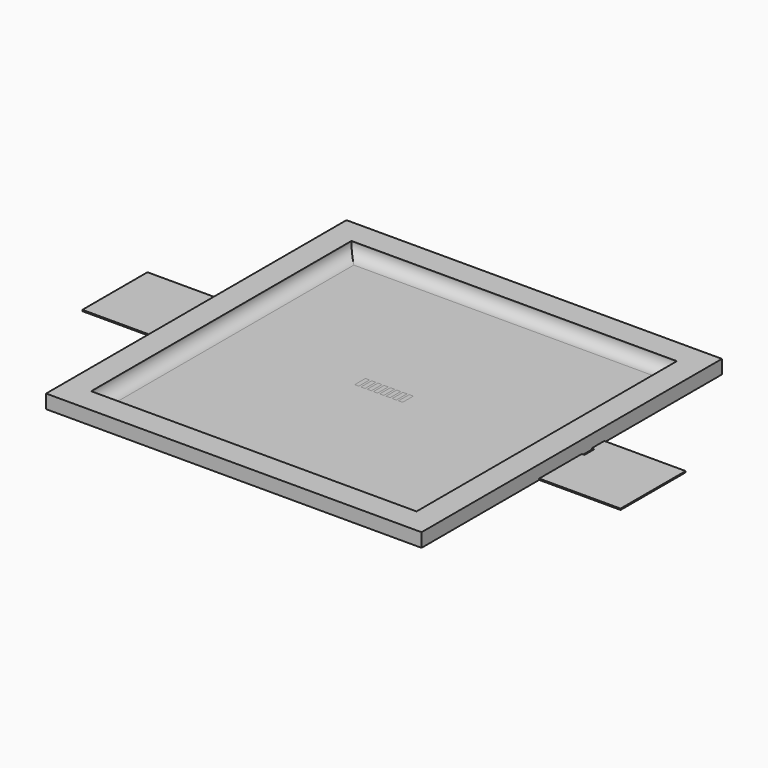
from build123d import *

# Parameters (mm, degrees)
SKETCH_W      = 86
SKETCH_H      = 13
SKETCH_W_2    = 0.5
SKETCH_H_2    = 2
PAD_DEPTH     = 0.2
SKETCH001_W   = 60
SKETCH001_H   = 60
SKETCH001_W_2 = 0.65
SKETCH001_H_2 = 2.15
PAD001_DEPTH  = 0.2
SKETCH002_W   = 60
SKETCH002_H   = 60
SKETCH002_W_2 = 52
SKETCH002_H_2 = 52
PAD002_DEPTH  = 2
FILLET_R      = 1.9


with BuildPart() as body:
    # Sketch → Pad (new body)
    with BuildSketch(Plane.XY):
        Rectangle(SKETCH_W, SKETCH_H)
        with Locations((-30.17, 3)):
            Rectangle(SKETCH_W_2, SKETCH_H_2, mode=Mode.SUBTRACT)
        with Locations((-29.17, 3)):
            Rectangle(SKETCH_W_2, SKETCH_H_2, mode=Mode.SUBTRACT)
        with Locations((-28.17, 3)):
            Rectangle(SKETCH_W_2, SKETCH_H_2, mode=Mode.SUBTRACT)
        with Locations((-27.17, 3)):
            Rectangle(SKETCH_W_2, SKETCH_H_2, mode=Mode.SUBTRACT)
        with Locations((-26.17, 3)):
            Rectangle(SKETCH_W_2, SKETCH_H_2, mode=Mode.SUBTRACT)
        with Locations((-25.17, 3)):
            Rectangle(SKETCH_W_2, SKETCH_H_2, mode=Mode.SUBTRACT)
        with Locations((-24.17, 3)):
            Rectangle(SKETCH_W_2, SKETCH_H_2, mode=Mode.SUBTRACT)
        with Locations((-23.17, 3)):
            Rectangle(SKETCH_W_2, SKETCH_H_2, mode=Mode.SUBTRACT)
        with Locations((23.17, 3)):
            Rectangle(SKETCH_W_2, SKETCH_H_2, mode=Mode.SUBTRACT)
        with Locations((24.17, 3)):
            Rectangle(SKETCH_W_2, SKETCH_H_2, mode=Mode.SUBTRACT)
        with Locations((25.17, 3)):
            Rectangle(SKETCH_W_2, SKETCH_H_2, mode=Mode.SUBTRACT)
        with Locations((26.17, 3)):
            Rectangle(SKETCH_W_2, SKETCH_H_2, mode=Mode.SUBTRACT)
        with Locations((27.17, 3)):
            Rectangle(SKETCH_W_2, SKETCH_H_2, mode=Mode.SUBTRACT)
        with Locations((28.17, 3)):
            Rectangle(SKETCH_W_2, SKETCH_H_2, mode=Mode.SUBTRACT)
        with Locations((29.17, 3)):
            Rectangle(SKETCH_W_2, SKETCH_H_2, mode=Mode.SUBTRACT)
        with Locations((30.17, 3)):
            Rectangle(SKETCH_W_2, SKETCH_H_2, mode=Mode.SUBTRACT)
    extrude(amount=PAD_DEPTH)


with BuildPart() as body001:
    # Sketch001 → Pad001 (new body)
    with BuildSketch(Plane.XY):
        Rectangle(SKETCH001_W, SKETCH001_H)
        with Locations((-3.5, 0)):
            Rectangle(SKETCH001_W_2, SKETCH001_H_2, mode=Mode.SUBTRACT)
        with Locations((-2.5, 0)):
            Rectangle(SKETCH001_W_2, SKETCH001_H_2, mode=Mode.SUBTRACT)
        with Locations((-1.5, 0)):
            Rectangle(SKETCH001_W_2, SKETCH001_H_2, mode=Mode.SUBTRACT)
        with Locations((-0.5, 0)):
            Rectangle(SKETCH001_W_2, SKETCH001_H_2, mode=Mode.SUBTRACT)
        with Locations((0.5, 0)):
            Rectangle(SKETCH001_W_2, SKETCH001_H_2, mode=Mode.SUBTRACT)
        with Locations((1.5, 0)):
            Rectangle(SKETCH001_W_2, SKETCH001_H_2, mode=Mode.SUBTRACT)
        with Locations((2.5, 0)):
            Rectangle(SKETCH001_W_2, SKETCH001_H_2, mode=Mode.SUBTRACT)
        with Locations((3.5, 0)):
            Rectangle(SKETCH001_W_2, SKETCH001_H_2, mode=Mode.SUBTRACT)
    extrude(amount=PAD001_DEPTH)

    # Sketch002 (on Face38 of Pad001) → Pad002 (join)
    with BuildSketch(Plane.XY.offset(0.2)):
        Rectangle(SKETCH002_W, SKETCH002_H)
        Rectangle(SKETCH002_W_2, SKETCH002_H_2, mode=Mode.SUBTRACT)
    extrude(amount=PAD002_DEPTH)

    # Fillet
    fillet_edges = [body001.edges().sort_by_distance(p)[0] for p in [
        (0, 26, 0.2),
        (-26, 0, 0.2),
        (26, 0, 0.2),
        (0, -26, 0.2),
    ]]
    fillet(fillet_edges, radius=FILLET_R)


solid = Compound([body.part, body001.part])
